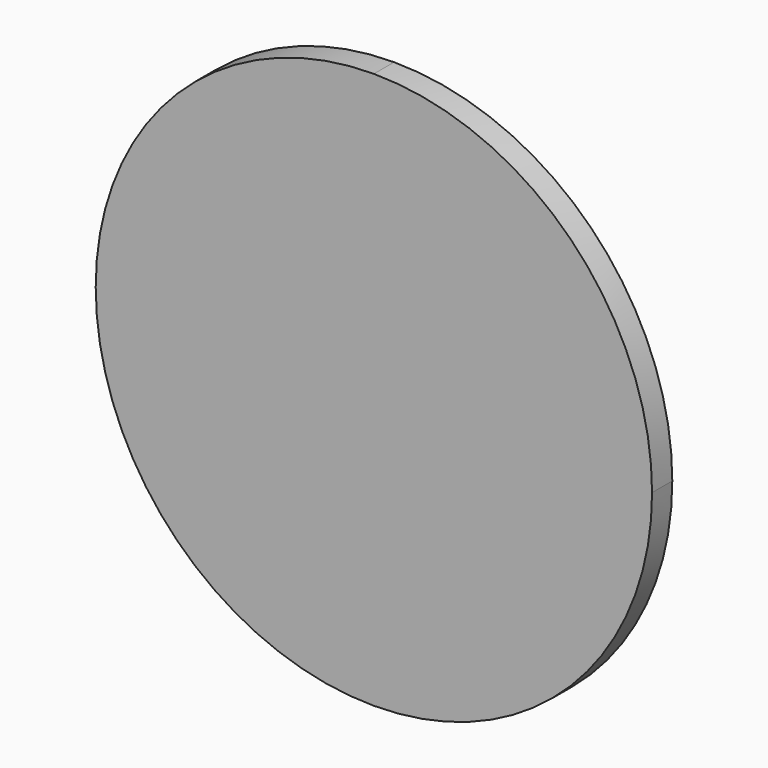
from build123d import *

# Parameters (mm, degrees)
F1_DEPTH = 6.35


with BuildPart() as f1:
    # F0 (on Front) → F1 (new body)
    with BuildSketch(Plane.XZ):
        with BuildLine():
            ThreePointArc((69.85, 0), (49.391409, 49.391409), (0, 69.85))
            ThreePointArc((0, 69.85), (-49.391409, 49.391409), (-69.85, 0))
            ThreePointArc((-69.85, 0), (-49.391409, -49.391409), (0, -69.85))
            ThreePointArc((0, -69.85), (49.391409, -49.391409), (69.85, 0))
        make_face()
    extrude(amount=-F1_DEPTH)


solid = f1.part
